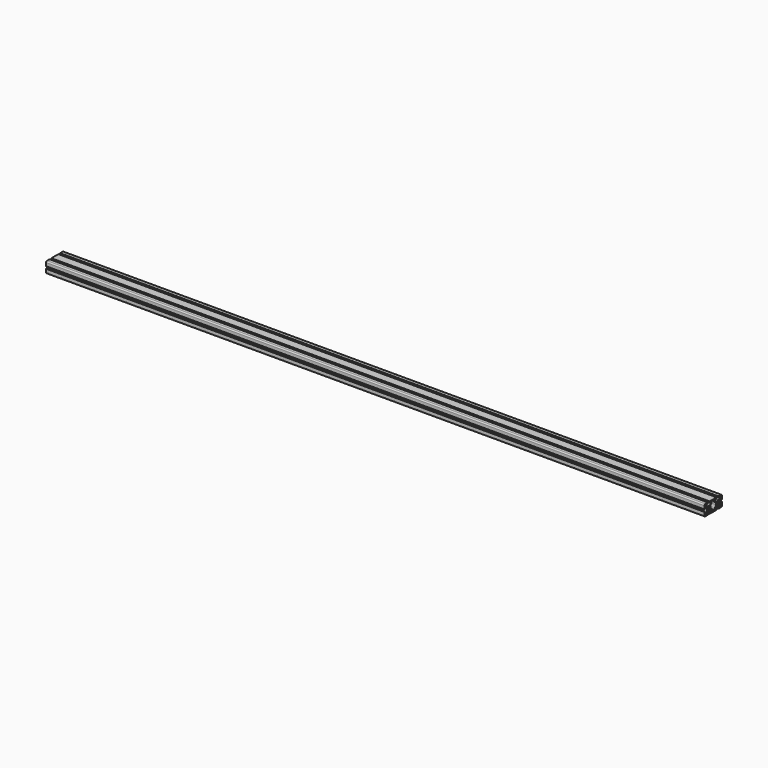
from build123d import *

# Parameters (mm, degrees)
F0_R     = 2.5
F1_DEPTH = 1800


with BuildPart() as f1:
    # F0 (on Right) → F1 (new body)
    with BuildSketch(Plane.YZ):
        with BuildLine():
            Line((-3.1, 15), (-12, 15))
            ThreePointArc((-12, 15), (-14.12132, 14.12132), (-15, 12))
            Line((-15, 12), (-15, 3.1))
            Line((-15, 3.1), (-12.8, 3.1))
            ThreePointArc((-12.8, 3.1), (-12.234315, 3.334315), (-12, 3.9))
            Line((-12, 3.9), (-12, 5.6))
            Line((-12, 5.6), (-13.5, 5.6))
            Line((-13.5, 5.6), (-13.5, 8.15))
            Line((-13.5, 8.15), (-10.805, 8.15))
            ThreePointArc((-10.805, 8.15), (-9.65695, 7.921639), (-8.68368, 7.27132))
            Line((-8.68368, 7.27132), (-6.12868, 4.71632))
            ThreePointArc((-6.12868, 4.71632), (-5.478361, 3.74305), (-5.25, 2.595))
            Line((-5.25, 2.595), (-5.25, -2.595))
            ThreePointArc((-5.25, -2.595), (-5.478361, -3.74305), (-6.12868, -4.71632))
            Line((-6.12868, -4.71632), (-8.68368, -7.27132))
            ThreePointArc((-8.68368, -7.27132), (-9.65695, -7.921639), (-10.805, -8.15))
            Line((-10.805, -8.15), (-13.5, -8.15))
            Line((-13.5, -8.15), (-13.5, -5.6))
            Line((-13.5, -5.6), (-12, -5.6))
            Line((-12, -5.6), (-12, -3.9))
            ThreePointArc((-12, -3.9), (-12.234315, -3.334315), (-12.8, -3.1))
            Line((-12.8, -3.1), (-15, -3.1))
            Line((-15, -3.1), (-15, -12))
            ThreePointArc((-15, -12), (-14.12132, -14.12132), (-12, -15))
            Line((-12, -15), (-3.1, -15))
            Line((-3.1, -15), (-3.1, -12.8))
            ThreePointArc((-3.1, -12.8), (-3.334315, -12.234315), (-3.9, -12))
            Line((-3.9, -12), (-5.6, -12))
            Line((-5.6, -12), (-5.6, -13.5))
            Line((-5.6, -13.5), (-8.15, -13.5))
            Line((-8.15, -13.5), (-8.15, -10.805))
            ThreePointArc((-8.15, -10.805), (-7.921639, -9.65695), (-7.27132, -8.68368))
            Line((-7.27132, -8.68368), (-4.71632, -6.12868))
            ThreePointArc((-4.71632, -6.12868), (-3.74305, -5.478361), (-2.595, -5.25))
            Line((-2.595, -5.25), (2.595, -5.25))
            ThreePointArc((2.595, -5.25), (3.74305, -5.478361), (4.71632, -6.12868))
            Line((4.71632, -6.12868), (7.27132, -8.68368))
            ThreePointArc((7.27132, -8.68368), (7.921639, -9.65695), (8.15, -10.805))
            Line((8.15, -10.805), (8.15, -13.5))
            Line((8.15, -13.5), (5.6, -13.5))
            Line((5.6, -13.5), (5.6, -12))
            Line((5.6, -12), (3.9, -12))
            ThreePointArc((3.9, -12), (3.334315, -12.234315), (3.1, -12.8))
            Line((3.1, -12.8), (3.1, -15))
            Line((3.1, -15), (12, -15))
            Line((12, -15), (18, -15))
            Line((18, -15), (26.9, -15))
            Line((26.9, -15), (26.9, -12.8))
            ThreePointArc((26.9, -12.8), (26.665685, -12.234315), (26.1, -12))
            Line((26.1, -12), (24.4, -12))
            Line((24.4, -12), (24.4, -13.5))
            Line((24.4, -13.5), (21.85, -13.5))
            Line((21.85, -13.5), (21.85, -10.805))
            ThreePointArc((21.85, -10.805), (22.078361, -9.65695), (22.72868, -8.68368))
            Line((22.72868, -8.68368), (25.28368, -6.12868))
            ThreePointArc((25.28368, -6.12868), (26.25695, -5.478361), (27.405, -5.25))
            Line((27.405, -5.25), (32.595, -5.25))
            ThreePointArc((32.595, -5.25), (33.74305, -5.478361), (34.71632, -6.12868))
            Line((34.71632, -6.12868), (37.27132, -8.68368))
            ThreePointArc((37.27132, -8.68368), (37.921639, -9.65695), (38.15, -10.805))
            Line((38.15, -10.805), (38.15, -13.5))
            Line((38.15, -13.5), (35.6, -13.5))
            Line((35.6, -13.5), (35.6, -12))
            Line((35.6, -12), (33.9, -12))
            ThreePointArc((33.9, -12), (33.334315, -12.234315), (33.1, -12.8))
            Line((33.1, -12.8), (33.1, -15))
            Line((33.1, -15), (42, -15))
            ThreePointArc((42, -15), (44.12132, -14.12132), (45, -12))
            Line((45, -12), (45, -3.1))
            Line((45, -3.1), (42.853195, -3.1))
            ThreePointArc((42.853195, -3.1), (42.28751, -3.334315), (42.053195, -3.9))
            Line((42.053195, -3.9), (42.053195, -5.6))
            Line((42.053195, -5.6), (43.5, -5.6))
            Line((43.5, -5.6), (43.5, -8.15))
            Line((43.5, -8.15), (40.805, -8.15))
            ThreePointArc((40.805, -8.15), (39.65695, -7.921639), (38.68368, -7.27132))
            Line((38.68368, -7.27132), (36.12868, -4.71632))
            ThreePointArc((36.12868, -4.71632), (35.478361, -3.74305), (35.25, -2.595))
            Line((35.25, -2.595), (35.25, 2.595))
            ThreePointArc((35.25, 2.595), (35.478361, 3.74305), (36.12868, 4.71632))
            Line((36.12868, 4.71632), (38.68405, 7.271691))
            ThreePointArc((38.68405, 7.271691), (39.635582, 7.912904), (40.758236, 8.15))
            Line((40.758236, 8.15), (43.5, 8.15))
            Line((43.5, 8.15), (43.5, 5.591972))
            Line((43.5, 5.591972), (42, 5.591972))
            Line((42, 5.591972), (42, 3.9))
            ThreePointArc((42, 3.9), (42.234315, 3.334315), (42.8, 3.1))
            Line((42.8, 3.1), (45, 3.1))
            Line((45, 3.1), (45, 12))
            ThreePointArc((45, 12), (44.12132, 14.12132), (42, 15))
            Line((42, 15), (33.1, 15))
            Line((33.1, 15), (33.1, 12.8))
            ThreePointArc((33.1, 12.8), (33.334315, 12.234315), (33.9, 12))
            Line((33.9, 12), (35.6, 12))
            Line((35.6, 12), (35.6, 13.5))
            Line((35.6, 13.5), (38.15, 13.5))
            Line((38.15, 13.5), (38.15, 10.805))
            ThreePointArc((38.15, 10.805), (37.921639, 9.65695), (37.27132, 8.68368))
            Line((37.27132, 8.68368), (34.71632, 6.12868))
            ThreePointArc((34.71632, 6.12868), (33.74305, 5.478361), (32.595, 5.25))
            Line((32.595, 5.25), (27.405, 5.25))
            ThreePointArc((27.405, 5.25), (26.25695, 5.478361), (25.28368, 6.12868))
            Line((25.28368, 6.12868), (22.72868, 8.68368))
            ThreePointArc((22.72868, 8.68368), (22.078361, 9.65695), (21.85, 10.805))
            Line((21.85, 10.805), (21.85, 13.5))
            Line((21.85, 13.5), (24.4, 13.5))
            Line((24.4, 13.5), (24.4, 12))
            Line((24.4, 12), (26.1, 12))
            ThreePointArc((26.1, 12), (26.665685, 12.234315), (26.9, 12.8))
            Line((26.9, 12.8), (26.9, 15))
            Line((26.9, 15), (18.489018, 15))
            Line((18.489018, 15), (18, 15))
            Line((18, 15), (12, 15))
            Line((12, 15), (3.1, 15))
            Line((3.1, 15), (3.1, 12.8))
            ThreePointArc((3.1, 12.8), (3.334315, 12.234315), (3.9, 12))
            Line((3.9, 12), (5.6, 12))
            Line((5.6, 12), (5.6, 13.5))
            Line((5.6, 13.5), (8.15, 13.5))
            Line((8.15, 13.5), (8.15, 10.805))
            ThreePointArc((8.15, 10.805), (7.921639, 9.65695), (7.27132, 8.68368))
            Line((7.27132, 8.68368), (4.71632, 6.12868))
            ThreePointArc((4.71632, 6.12868), (3.74305, 5.478361), (2.595, 5.25))
            Line((2.595, 5.25), (-2.595, 5.25))
            ThreePointArc((-2.595, 5.25), (-3.74305, 5.478361), (-4.71632, 6.12868))
            Line((-4.71632, 6.12868), (-7.27132, 8.68368))
            ThreePointArc((-7.27132, 8.68368), (-7.921639, 9.65695), (-8.15, 10.805))
            Line((-8.15, 10.805), (-8.15, 13.5))
            Line((-8.15, 13.5), (-5.6, 13.5))
            Line((-5.6, 13.5), (-5.6, 12))
            Line((-5.6, 12), (-3.9, 12))
            ThreePointArc((-3.9, 12), (-3.334315, 12.234315), (-3.1, 12.8))
            Line((-3.1, 12.8), (-3.1, 15))
        make_face()
        with BuildLine():
            ThreePointArc((-12, -13.5), (-13.06066, -13.06066), (-13.5, -12))
            Line((-13.5, -12), (-13.5, -9.65))
            Line((-13.5, -9.65), (-9.65, -9.65))
            Line((-9.65, -9.65), (-9.65, -13.5))
            Line((-9.65, -13.5), (-12, -13.5))
        make_face(mode=Mode.SUBTRACT)
        Circle(F0_R, mode=Mode.SUBTRACT)
        with BuildLine():
            Line((42, -13.5), (39.65, -13.5))
            Line((39.65, -13.5), (39.65, -9.65))
            Line((39.65, -9.65), (43.5, -9.65))
            Line((43.5, -9.65), (43.5, -12))
            ThreePointArc((43.5, -12), (43.06066, -13.06066), (42, -13.5))
        make_face(mode=Mode.SUBTRACT)
        with BuildLine():
            Line((20.35, -13.5), (9.65, -13.5))
            Line((9.65, -13.5), (9.65, -9.65))
            ThreePointArc((9.65, -9.65), (9.407635, -8.362839), (8.68368, -7.27132))
            Line((8.68368, -7.27132), (6.12868, -4.71632))
            ThreePointArc((6.12868, -4.71632), (5.478361, -3.74305), (5.25, -2.595))
            Line((5.25, -2.595), (5.25, 2.595))
            ThreePointArc((5.25, 2.595), (5.478361, 3.74305), (6.12868, 4.71632))
            Line((6.12868, 4.71632), (8.713914, 7.301555))
            ThreePointArc((8.713914, 7.301555), (9.406719, 8.338411), (9.65, 9.561466))
            Line((9.65, 9.561466), (9.65, 13.5))
            Line((9.65, 13.5), (20.35, 13.5))
            Line((20.35, 13.5), (20.35, 9.65))
            ThreePointArc((20.35, 9.65), (20.600801, 8.366266), (21.31632, 7.27132))
            Line((21.31632, 7.27132), (23.87132, 4.71632))
            ThreePointArc((23.87132, 4.71632), (24.521639, 3.74305), (24.75, 2.595))
            Line((24.75, 2.595), (24.75, -2.595))
            ThreePointArc((24.75, -2.595), (24.521639, -3.74305), (23.87132, -4.71632))
            Line((23.87132, -4.71632), (21.31632, -7.27132))
            ThreePointArc((21.31632, -7.27132), (20.600801, -8.366266), (20.35, -9.65))
            Line((20.35, -9.65), (20.35, -13.5))
        make_face(mode=Mode.SUBTRACT)
        with Locations((30, 0)):
            Circle(F0_R, mode=Mode.SUBTRACT)
        with BuildLine():
            ThreePointArc((-13.5, 12), (-13.06066, 13.06066), (-12, 13.5))
            Line((-12, 13.5), (-9.65, 13.5))
            Line((-9.65, 13.5), (-9.65, 9.65))
            Line((-9.65, 9.65), (-13.5, 9.65))
            Line((-13.5, 9.65), (-13.5, 12))
        make_face(mode=Mode.SUBTRACT)
        with BuildLine():
            ThreePointArc((42, 13.5), (43.06066, 13.06066), (43.5, 12))
            Line((43.5, 12), (43.5, 9.65))
            Line((43.5, 9.65), (39.65, 9.65))
            Line((39.65, 9.65), (39.65, 13.5))
            Line((39.65, 13.5), (42, 13.5))
        make_face(mode=Mode.SUBTRACT)
    extrude(amount=F1_DEPTH)


solid = f1.part
